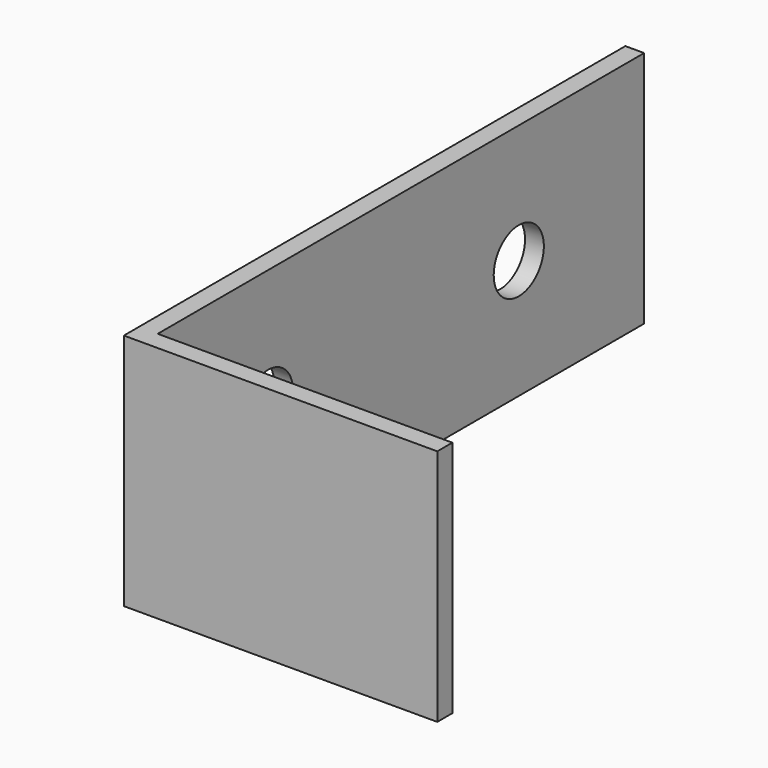
from build123d import *

# Parameters (mm, degrees)
F1_DEPTH = 38
F2_R     = 5
F3_DEPTH = 25


with BuildPart() as f1:
    # F0 (on Top) → F1 (new body)
    with BuildSketch(Plane.XY):
        Polygon((0, 3), (0, 0), (3, 0), (50, 0), (50, 3), (3, 3), (3, 100), (0, 100), align=None)
    extrude(amount=F1_DEPTH)

    # F2 (on face) → F3 (cut)
    with BuildSketch(Plane(origin=(0, 0, 0), x_dir=(0, -1, 0), z_dir=(-1, 0, 0))):
        with Locations((-75, 19)):
            Circle(F2_R)
        with Locations((-25, 19)):
            Circle(F2_R)
    extrude(amount=-F3_DEPTH, mode=Mode.SUBTRACT)


solid = f1.part
